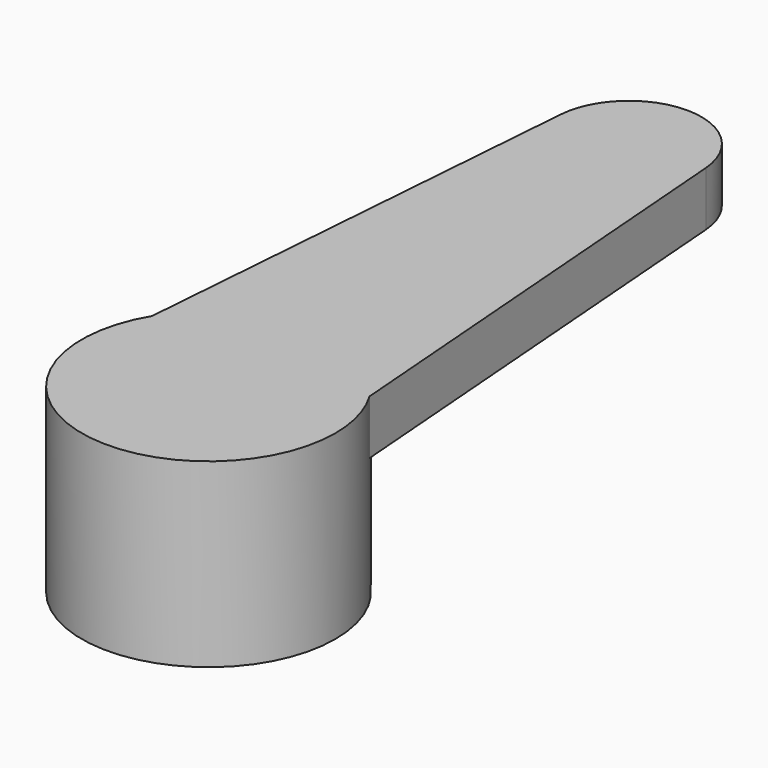
from build123d import *

# Parameters (mm, degrees)
F0_R     = 3.5
F1_DEPTH = 5
F3_DEPTH = 1.5


with BuildPart() as f1:
    # F0 (on Top) → F1 (new body)
    with BuildSketch(Plane.XY):
        Circle(F0_R)
    extrude(amount=-F1_DEPTH)

    # F2 (on Top) → F3 (join)
    with BuildSketch(Plane.XY):
        with BuildLine():
            Line((3, 1.802776), (2, 14.64963))
            ThreePointArc((2, 14.64963), (0, 16.5), (-2, 14.64963))
            Line((-2, 14.64963), (-3, 1.802776))
            ThreePointArc((-3, 1.802776), (0, 3.5), (3, 1.802776))
        make_face()
    extrude(amount=-F3_DEPTH)


solid = f1.part
